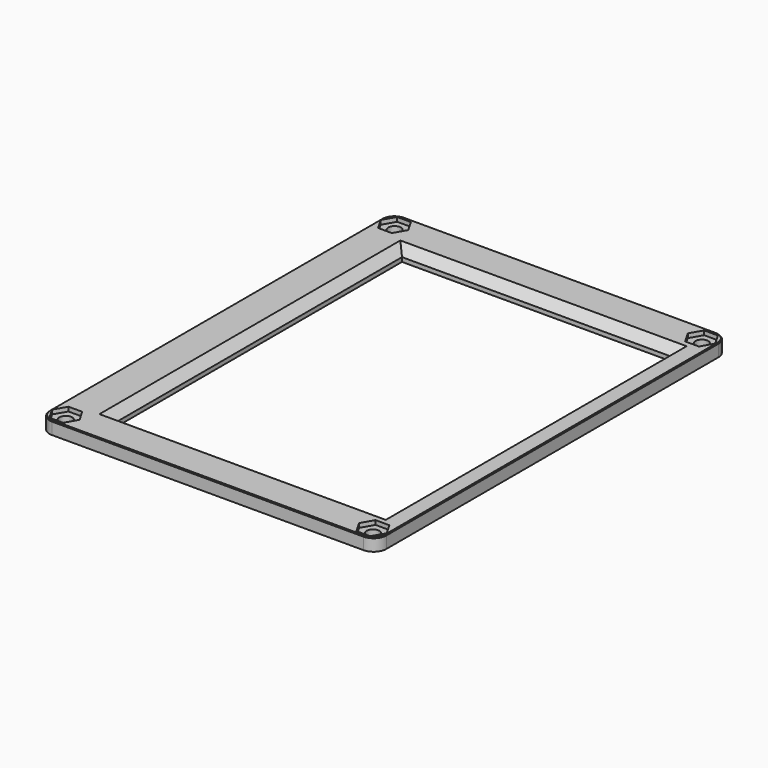
from build123d import *

# Parameters (mm, degrees)
SKETCH009_W          = 79.5
SKETCH009_H          = 104
SKETCH009_W_2        = 63.6
SKETCH009_H_2        = 84.8
PAD005_DEPTH         = 3
POCKET009_DEPTH      = 2
POCKET010_DEPTH      = 2
POCKET011_DEPTH      = 2
POCKET012_DEPTH      = 2
SKETCH013_R          = 1.5
POCKET013_DEPTH      = 0.001
POCKET013_DEPTH_BACK = 3.001
FILLET003_R          = 3
CHAMFER_SIZE         = 2
CHAMFER009_SIZE      = 0.2


with BuildPart() as part:
    # Sketch009 → Pad005 (new body)
    with BuildSketch(Plane.XY):
        with Locations((-2.25, 6.5)):
            Rectangle(SKETCH009_W, SKETCH009_H)
        with Locations((-0.043942, 6.41066)):
            Rectangle(SKETCH009_W_2, SKETCH009_H_2, mode=Mode.SUBTRACT)
    extrude(amount=PAD005_DEPTH)

    # Sketch008 → Pocket009 (cut)
    with BuildSketch(Plane.XY.offset(2)):
        Polygon((-35.284015, 54.943331), (-36.909015, 57.757914), (-40.159015, 57.757914), (-41.784015, 54.943331), (-40.159015, 52.128748), (-36.909015, 52.128748), align=None)
    extrude(amount=POCKET009_DEPTH, mode=Mode.SUBTRACT)

    # Sketch011 → Pocket010 (cut)
    with BuildSketch(Plane.XY.offset(2)):
        Polygon((30.715985, -42.056669), (32.340985, -44.871252), (35.590985, -44.871252), (37.215985, -42.056669), (35.590985, -39.242086), (32.340985, -39.242086), align=None)
    extrude(amount=POCKET010_DEPTH, mode=Mode.SUBTRACT)

    # Sketch012 → Pocket011 (cut)
    with BuildSketch(Plane.XY.offset(2)):
        Polygon((32.340985, 52.128748), (35.590985, 52.128748), (37.215985, 54.943331), (35.590985, 57.757914), (32.340985, 57.757914), (30.715985, 54.943331), align=None)
    extrude(amount=POCKET011_DEPTH, mode=Mode.SUBTRACT)

    # Sketch010 → Pocket012 (cut)
    with BuildSketch(Plane.XY.offset(2)):
        Polygon((-35.284015, -42.056669), (-36.909015, -39.242086), (-40.159015, -39.242086), (-41.784015, -42.056669), (-40.159015, -44.871252), (-36.909015, -44.871252), align=None)
    extrude(amount=POCKET012_DEPTH, mode=Mode.SUBTRACT)

    # Sketch013 → Pocket013 (cut, two sides)
    with BuildSketch(Plane.XY) as pocket013_sk:
        with Locations((-38.515098, -42.092489)):
            Circle(SKETCH013_R)
        with Locations((34.02781, -42.092489)):
            Circle(SKETCH013_R)
        with Locations((34.02781, 54.9676)):
            Circle(SKETCH013_R)
        with Locations((-38.515098, 54.9676)):
            Circle(SKETCH013_R)
    extrude(amount=-POCKET013_DEPTH, mode=Mode.SUBTRACT)
    extrude(pocket013_sk.sketch, amount=POCKET013_DEPTH_BACK, mode=Mode.SUBTRACT)

    # Fillet003
    fillet003_edges = [part.edges().sort_by_distance(p)[0] for p in [
        (-42, 58.5, 1.5),
        (-42, -45.5, 1.5),
        (37.5, -45.5, 1.5),
        (37.5, 58.5, 1.5),
    ]]
    fillet(fillet003_edges, radius=FILLET003_R)

    # Chamfer
    chamfer_edges = [part.edges().sort_by_distance(p)[0] for p in [
        (-0.043942, -35.98934, 3),
        (31.756058, 6.41066, 3),
        (-31.843942, 6.41066, 3),
        (-0.043942, 48.81066, 3),
    ]]
    chamfer(chamfer_edges, length=CHAMFER_SIZE)

    # Chamfer009
    chamfer009_edges = [part.edges().sort_by_distance(p)[0] for p in [
        (-2.25, -45.5, 3),
        (-41.12132, -44.62132, 3),
        (-42, 6.5, 3),
        (36.62132, -44.62132, 3),
        (37.5, 6.5, 3),
        (36.62132, 57.62132, 3),
        (-2.25, 58.5, 3),
        (-41.12132, 57.62132, 3),
    ]]
    chamfer(chamfer009_edges, length=CHAMFER009_SIZE)


solid = part.part
